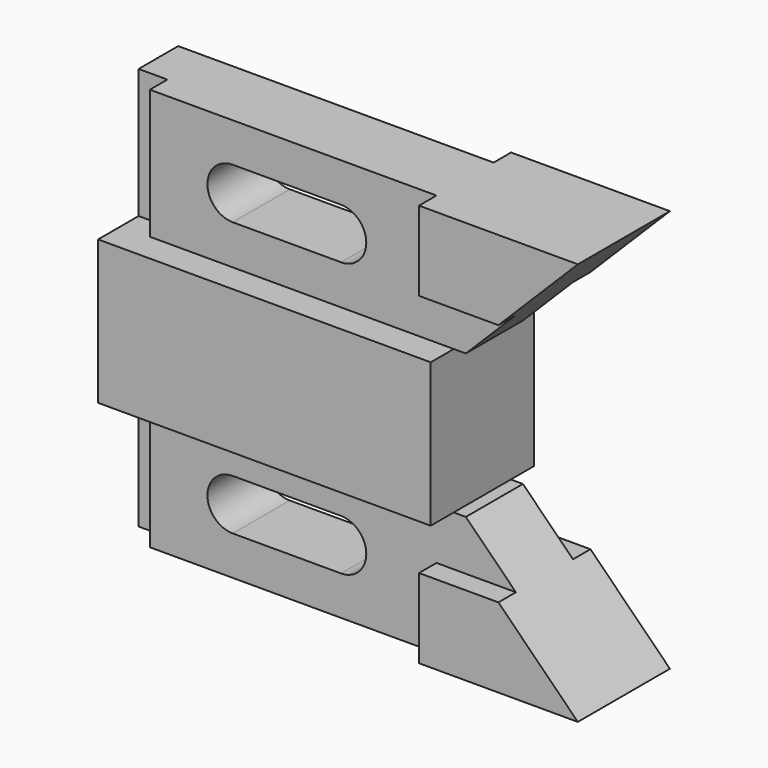
from build123d import *

# Parameters (mm, degrees)
F0_W     = 6.35
F0_H     = 28.575
F1_DEPTH = 7.874
F2_DEPTH = 14.224
F3_DEPTH = 12.7
F5_W     = 6.35
F5_H     = 28.575
F6_DEPTH = 4.826


with BuildPart() as f1:
    # F0 (on Front) → F1 (new body)
    with BuildSketch(Plane.XZ):
        Polygon((0, 15.875), (0, 0), (73.406, 0), (73.406, 15.875), (6.35, 15.875), align=None)
        Polygon((73.406, 0), (0, 0), (0, -15.875), (6.35, -15.875), (73.406, -15.875), align=None)
        with Locations((3.175, 30.1625)):
            Rectangle(F0_W, F0_H)
        with Locations((3.175, -30.1625)):
            Rectangle(F0_W, F0_H)
        Polygon((6.35, 44.45), (6.35, 15.875), (73.406, 15.875), (76.073, 15.875), (87.122, 26.924), (69.596, 26.924), (69.596, 44.45), align=None)
        with BuildLine():
            ThreePointArc((24.638, 24.638), (19.05, 30.226), (24.638, 35.814))
            Line((24.638, 35.814), (48.514, 35.814))
            ThreePointArc((48.514, 35.814), (54.102, 30.226), (48.514, 24.638))
            Line((48.514, 24.638), (24.638, 24.638))
        make_face(mode=Mode.SUBTRACT)
        Polygon((76.073, -15.875), (73.406, -15.875), (6.35, -15.875), (6.35, -44.45), (69.596, -44.45), (69.596, -26.924), (87.122, -26.924), align=None)
        with BuildLine():
            Line((24.638, -24.638), (48.514, -24.638))
            ThreePointArc((48.514, -24.638), (54.102, -30.226), (48.514, -35.814))
            Line((48.514, -35.814), (24.638, -35.814))
            ThreePointArc((24.638, -35.814), (19.05, -30.226), (24.638, -24.638))
        make_face(mode=Mode.SUBTRACT)
        Polygon((104.648, 44.45), (69.596, 44.45), (69.596, 26.924), (87.122, 26.924), align=None)
        Polygon((104.648, -44.45), (87.122, -26.924), (69.596, -26.924), (69.596, -44.45), align=None)
    extrude(amount=F1_DEPTH)

    # F0 (on Front) → F2 (join)
    with BuildSketch(Plane.XZ):
        Polygon((0, 15.875), (0, 0), (73.406, 0), (73.406, 15.875), (6.35, 15.875), align=None)
        Polygon((73.406, 0), (0, 0), (0, -15.875), (6.35, -15.875), (73.406, -15.875), align=None)
    extrude(amount=F2_DEPTH)

    # F0 (on Front) → F3 (join)
    with BuildSketch(Plane.XZ):
        Polygon((104.648, 44.45), (69.596, 44.45), (69.596, 26.924), (87.122, 26.924), align=None)
        Polygon((104.648, -44.45), (87.122, -26.924), (69.596, -26.924), (69.596, -44.45), align=None)
    extrude(amount=F3_DEPTH)

    # F4: F1 across plane


with BuildPart() as f1_1:
    add(f1.part)
    add(f1.part.mirror(Plane.XZ))

    # F5 (on face) → F6 (cut)
    with BuildSketch(Plane.XZ.offset(7.874)):
        with Locations((3.175, 30.1625)):
            Rectangle(F5_W, F5_H)
        with Locations((3.175, -30.1625)):
            Rectangle(F5_W, F5_H)
    extrude(amount=-F6_DEPTH, mode=Mode.SUBTRACT)


solid = f1_1.part
